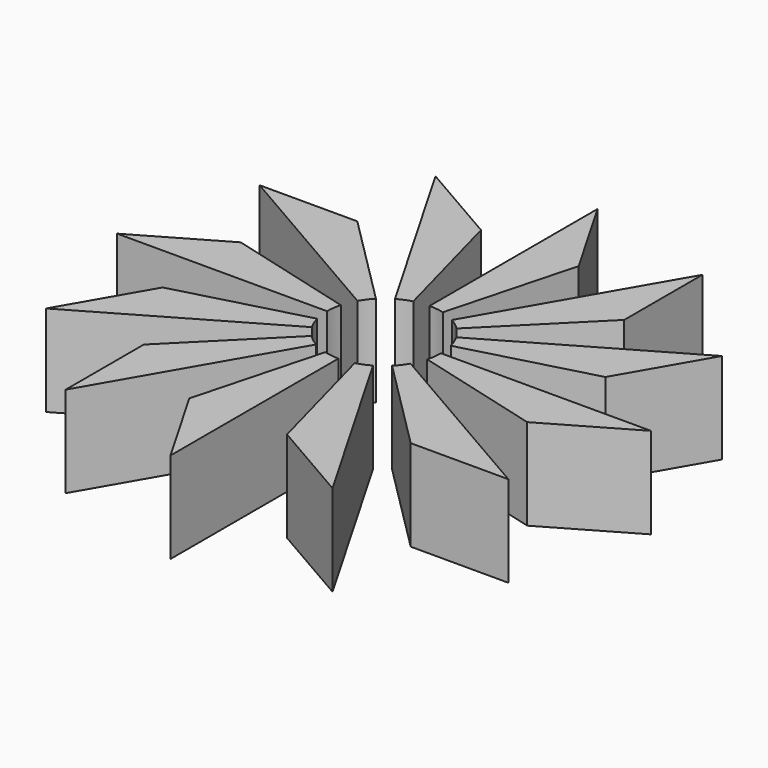
from build123d import *

# Parameters (mm, degrees)
F1_DEPTH = 25.4


with BuildPart() as f1:
    # F0 (on Top) → F1 (new body)
    with BuildSketch(Plane.XY):
        with BuildLine():
            ThreePointArc((-13.748153, 7.9375), (-12.594484, 9.664088), (-11.22532, 11.22532))
            Line((-11.22532, 11.22532), (-37.188181, 37.188181))
            Line((-37.188181, 37.188181), (-64.411819, 37.188181))
            Line((-64.411819, 37.188181), (-13.748153, 7.9375))
        make_face()
        with BuildLine():
            ThreePointArc((-7.9375, 13.748153), (-6.075099, 14.666588), (-4.108752, 15.334072))
            Line((-4.108752, 15.334072), (-13.611819, 50.8))
            Line((-13.611819, 50.8), (-37.188181, 64.411819))
            Line((-37.188181, 64.411819), (-7.9375, 13.748153))
        make_face()
        with BuildLine():
            ThreePointArc((0, 15.875), (2.072103, 15.739187), (4.108752, 15.334072))
            Line((4.108752, 15.334072), (13.611819, 50.8))
            Line((13.611819, 50.8), (0, 74.376362))
            Line((0, 74.376362), (0, 15.875))
        make_face()
        with BuildLine():
            ThreePointArc((7.9375, 13.748153), (9.664088, 12.594484), (11.22532, 11.22532))
            Line((11.22532, 11.22532), (37.188181, 37.188181))
            Line((37.188181, 37.188181), (37.188181, 64.411819))
            Line((37.188181, 64.411819), (7.9375, 13.748153))
        make_face()
        with BuildLine():
            ThreePointArc((13.748153, 7.9375), (14.666588, 6.075099), (15.334072, 4.108752))
            Line((15.334072, 4.108752), (50.8, 13.611819))
            Line((50.8, 13.611819), (64.411819, 37.188181))
            Line((64.411819, 37.188181), (13.748153, 7.9375))
        make_face()
        with BuildLine():
            Line((74.376362, 0), (15.875, 0))
            ThreePointArc((15.875, 0), (15.739187, -2.072103), (15.334072, -4.108752))
            Line((15.334072, -4.108752), (50.8, -13.611819))
            Line((50.8, -13.611819), (74.376362, 0))
        make_face()
        with BuildLine():
            Line((64.411819, -37.188181), (13.748153, -7.9375))
            ThreePointArc((13.748153, -7.9375), (12.594484, -9.664088), (11.22532, -11.22532))
            Line((11.22532, -11.22532), (37.188181, -37.188181))
            Line((37.188181, -37.188181), (64.411819, -37.188181))
        make_face()
        with BuildLine():
            Line((37.188181, -64.411819), (7.9375, -13.748153))
            ThreePointArc((7.9375, -13.748153), (6.075099, -14.666588), (4.108752, -15.334072))
            Line((4.108752, -15.334072), (13.611819, -50.8))
            Line((13.611819, -50.8), (37.188181, -64.411819))
        make_face()
        with BuildLine():
            Line((0, -74.376362), (0, -15.875))
            ThreePointArc((0, -15.875), (-2.072103, -15.739187), (-4.108752, -15.334072))
            Line((-4.108752, -15.334072), (-13.611819, -50.8))
            Line((-13.611819, -50.8), (0, -74.376362))
        make_face()
        with BuildLine():
            Line((-37.188181, -64.411819), (-7.9375, -13.748153))
            ThreePointArc((-7.9375, -13.748153), (-9.664088, -12.594484), (-11.22532, -11.22532))
            Line((-11.22532, -11.22532), (-37.188181, -37.188181))
            Line((-37.188181, -37.188181), (-37.188181, -64.411819))
        make_face()
        with BuildLine():
            Line((-64.411819, -37.188181), (-13.748153, -7.9375))
            ThreePointArc((-13.748153, -7.9375), (-14.666588, -6.075099), (-15.334072, -4.108752))
            Line((-15.334072, -4.108752), (-50.8, -13.611819))
            Line((-50.8, -13.611819), (-64.411819, -37.188181))
        make_face()
        with BuildLine():
            ThreePointArc((-15.875, 0), (-15.739187, 2.072103), (-15.334072, 4.108752))
            Line((-15.334072, 4.108752), (-50.8, 13.611819))
            Line((-50.8, 13.611819), (-74.376362, 0))
            Line((-74.376362, 0), (-15.875, 0))
        make_face()
    extrude(amount=F1_DEPTH)


solid = f1.part
